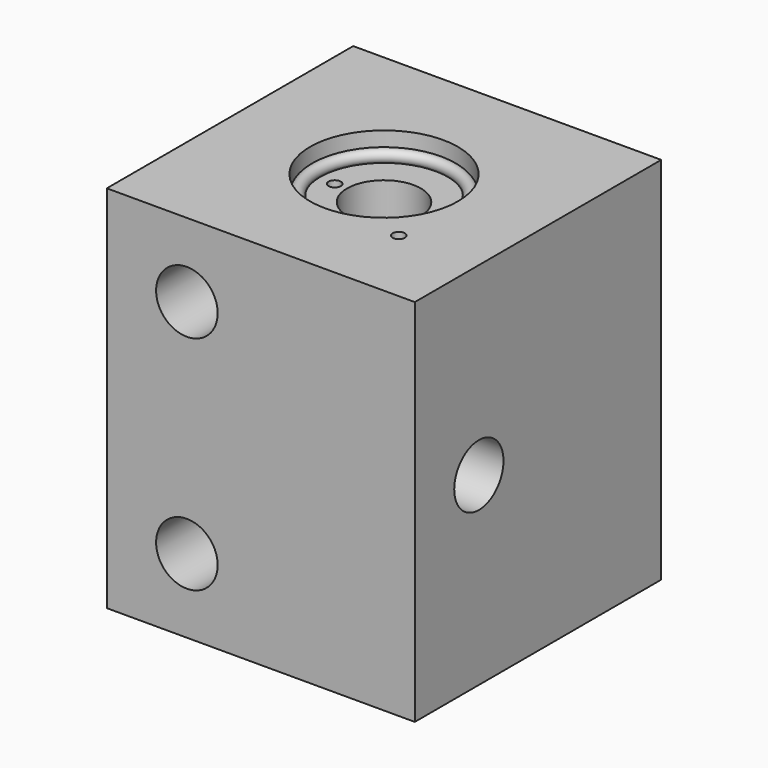
from build123d import *

# Parameters (mm, degrees)
F0_W            = 25
F0_H            = 30
F1_DEPTH        = 12.5
F12_D           = 6
F12_CBORE_D     = 12
F12_CBORE_DEPTH = 2
F3_D            = 5
F14_D           = 5
F5_D            = 5
F5_DEPTH        = 15
F5_TIP          = 1.5021515476
F6_D            = 1
F6_DEPTH        = 12
F6_START        = 2
F6_TIP          = 0.3004303095
F15_D           = 1
F15_DEPTH       = 15
F15_TIP         = 0.3004303095
F16_D           = 1
F16_DEPTH       = 15
F16_TIP         = 0.3004303095
F8_D            = 1
F8_DEPTH        = 8
F8_TIP          = 0.3004303095
F9_D            = 6
F9_DEPTH        = 2
F9_CBORE_D      = 12
F9_CBORE_DEPTH  = 2
F9_TIP          = 1.8025818571
F17_R           = 0.5


with BuildPart() as f1:
    # F0 (on Front) → F1 (new body, symmetric)
    with BuildSketch(Plane.XZ):
        with Locations((12.5, 15)):
            Rectangle(F0_W, F0_H)
    extrude(amount=F1_DEPTH, both=True)

    # F12 (through all)
    with Locations(Plane.XY.offset(30)):
        with Locations((12.5, 0)):
            CounterBoreHole(F12_D / 2, F12_CBORE_D / 2, F12_CBORE_DEPTH)

    # F3 (through all)
    with Locations(Plane.XZ.offset(12.5)):
        with Locations((6.5, 6)):
            Hole(F3_D / 2)

    # F14 (through all)
    with Locations(Plane.XZ.offset(12.5)):
        with Locations((6.5, 24)):
            Hole(F14_D / 2)

    # F5
    with Locations(Plane.YZ.offset(25)):
        with Locations((-6, 15)):
            Hole(F5_D / 2, depth=F5_DEPTH)
            with Locations((0, 0, -(F5_DEPTH + F5_TIP / 2))):  # 118° drill point
                Cone(0, F5_D / 2, F5_TIP, mode=Mode.SUBTRACT)

    # F6
    # its depths count from where the whole tool has entered the part; down to there all is cleared
    with Locations(Plane.XY.offset(30).offset(-F6_START)):
        with Locations((8.5, 0)):
            Hole(F6_D / 2, depth=F6_DEPTH)
            with Locations((0, 0, -(F6_DEPTH + F6_TIP / 2))):  # 118° drill point
                Cone(0, F6_D / 2, F6_TIP, mode=Mode.SUBTRACT)

    # F15
    with Locations(Plane.XY.offset(30)):
        with Locations((18.5, -6)):
            Hole(F15_D / 2, depth=F15_DEPTH)
            with Locations((0, 0, -(F15_DEPTH + F15_TIP / 2))):  # 118° drill point
                Cone(0, F15_D / 2, F15_TIP, mode=Mode.SUBTRACT)

    # F16
    with Locations(Plane(origin=(0, 0, 0), x_dir=(1, 0, 0), z_dir=(0, 0, -1))):
        with Locations((12.5, 4)):
            Hole(F16_D / 2, depth=F16_DEPTH)
            with Locations((0, 0, -(F16_DEPTH + F16_TIP / 2))):  # 118° drill point
                Cone(0, F16_D / 2, F16_TIP, mode=Mode.SUBTRACT)

    # F8
    with Locations(Plane(origin=(0, 0, 0), x_dir=(1, 0, 0), z_dir=(0, 0, -1))):
        with Locations((6.5, 4)):
            Hole(F8_D / 2, depth=F8_DEPTH)
            with Locations((0, 0, -(F8_DEPTH + F8_TIP / 2))):  # 118° drill point
                Cone(0, F8_D / 2, F8_TIP, mode=Mode.SUBTRACT)

    # F9
    with Locations(Plane(origin=(0, 0, 0), x_dir=(1, 0, 0), z_dir=(0, 0, -1))):
        with Locations((12.5, 0)):
            CounterBoreHole(F9_D / 2, F9_CBORE_D / 2, F9_CBORE_DEPTH, depth=F9_DEPTH)
            with Locations((0, 0, -(F9_DEPTH + F9_TIP / 2))):  # 118° drill point
                Cone(0, F9_D / 2, F9_TIP, mode=Mode.SUBTRACT)


with BuildPart() as f10:
    # F17 (on Front) → F10 (revolve)
    with BuildSketch(Plane.XZ):
        with Locations((7, 28.5)):
            Circle(F17_R)
    revolve(axis=Axis((12.5, 0, 15), (0, 0, -1)))


with BuildPart() as f11:
    # F17 (on Front) → F11 (revolve)
    with BuildSketch(Plane.XZ):
        with Locations((7, 1.5)):
            Circle(F17_R)
    revolve(axis=Axis((12.5, 0, 15), (0, 0, -1)))


solid = Compound([f1.part, f10.part, f11.part])
